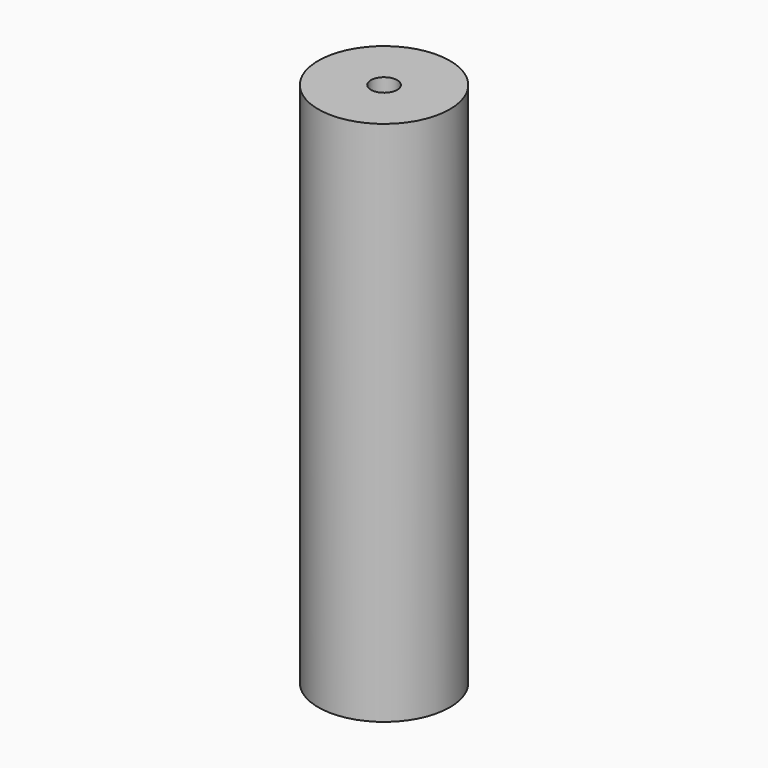
from build123d import *

# Parameters (mm, degrees)
F0_R     = 25
F0_R_2   = 5
F1_DEPTH = 200
F2_DEPTH = 200


with BuildPart() as f1:
    # F0 (on Top) → F1 (new body)
    with BuildSketch(Plane.XY):
        Circle(F0_R)
        Circle(F0_R_2, mode=Mode.SUBTRACT)
    extrude(amount=F1_DEPTH)

    # F0 (on Top) → F2 (cut)
    with BuildSketch(Plane.XY):
        Circle(F0_R_2)
    extrude(amount=F2_DEPTH, mode=Mode.SUBTRACT)


solid = f1.part
